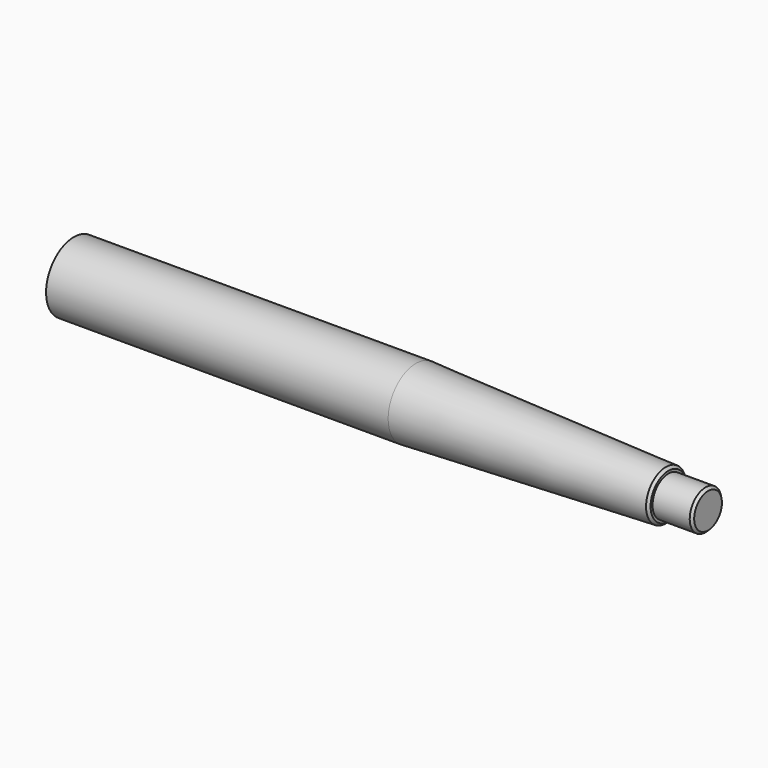
from build123d import *

# Parameters (mm, degrees)
F2_SIZE = 0.79375
F3_SIZE = 0.79375


with BuildPart() as f1:
    # F0 (on Front) → F1 (revolve)
    with BuildSketch(Plane.XZ):
        Polygon((0, 11.1125), (0, 0), (203.2, 0), (203.2, 6.35), (190.5, 6.35), (190.5, 7.9375), (109.599779, 11.1125), align=None)
    revolve(axis=Axis((101.6, 0, 0), (1, 0, 0)))

    # F2
    f2_edges = [f1.edges().sort_by_distance(p)[0] for p in [
        (190.5, 0, -7.9375),
    ]]
    chamfer(f2_edges, length=F2_SIZE)

    # F3
    f3_edges = [f1.edges().sort_by_distance(p)[0] for p in [
        (203.2, 0, -6.35),
    ]]
    chamfer(f3_edges, length=F3_SIZE)


solid = f1.part
